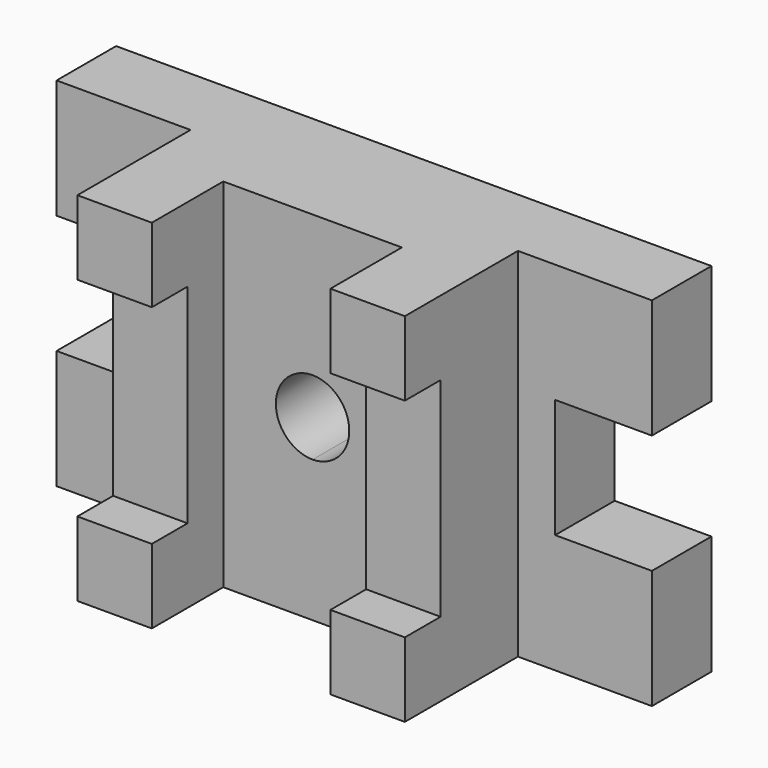
from build123d import *

# Parameters (mm, degrees)
F1_DEPTH = 31.75
F2_DEPTH = 53.975
F0_W     = 31.75
F0_H     = 88.9
F3_DEPTH = 73.025
F0_H_2   = 31.75
F4_DEPTH = 92.075


with BuildPart() as f1:
    # F0 (on Front) → F1 (new body)
    with BuildSketch(Plane.XZ):
        Polygon((-69.6421221438, 44.45), (-69.6421221438, 76.2), (-126.7921221438, 76.2), (-126.7921221438, 25.4), (-85.5171221438, 25.4), (-85.5171221438, -25.4), (-126.7921221438, -25.4), (-126.7921221438, -76.2), (-69.6421221438, -76.2), (-69.6421221438, -44.45), align=None)
    extrude(amount=F1_DEPTH)



with BuildPart() as f1b:
    # F0 (on Front) → F1, piece 2 (new body)
    with BuildSketch(Plane.XZ):
        Polygon((127.2078778562, 25.4), (127.2078778562, 76.2), (70.0578778562, 76.2), (70.0578778562, 44.45), (70.0578778562, -44.45), (70.0578778562, -76.2), (127.2078778562, -76.2), (127.2078778562, -25.4), (85.9328778562, -25.4), (85.9328778562, 25.4), align=None)
    extrude(amount=F1_DEPTH)


with BuildPart() as f2:
    # F0 (on Front) → F2 (new body)
    with BuildSketch(Plane.XZ):
        with BuildLine():
            Line((38.3078778562, 44.45), (38.3078778562, 76.2))
            Line((38.3078778562, 76.2), (0.2078778562, 76.2))
            Line((0.2078778562, 76.2), (0.2078778562, 15.8736388959))
            ThreePointArc((0.2078778562, 15.8736388959), (15.875, 0), (0.2078778562, -15.8736388959))
            Line((0.2078778562, -15.8736388959), (0.2078778562, -76.2))
            Line((0.2078778562, -76.2), (38.3078778562, -76.2))
            Line((38.3078778562, -76.2), (38.3078778562, -44.45))
            Line((38.3078778562, -44.45), (38.3078778562, 44.45))
        make_face()
        with BuildLine():
            Line((0.2078778562, 15.8736388959), (0.2078778562, 76.2))
            Line((0.2078778562, 76.2), (-37.8921221438, 76.2))
            Line((-37.8921221438, 76.2), (-37.8921221438, 44.45))
            Line((-37.8921221438, 44.45), (-37.8921221438, -44.45))
            Line((-37.8921221438, -44.45), (-37.8921221438, -76.2))
            Line((-37.8921221438, -76.2), (0.2078778562, -76.2))
            Line((0.2078778562, -76.2), (0.2078778562, -15.8736388959))
            ThreePointArc((0.2078778562, -15.8736388959), (-15.4592442877, 0), (0.2078778562, 15.8736388959))
        make_face()
    extrude(amount=F2_DEPTH)


with BuildPart() as f1_1:
    add(f1.part)

    add(f1b.part)  # F3 merges F1b

    add(f2.part)  # F3 merges F2
    # F0 (on Front) → F3 (join)
    with BuildSketch(Plane.XZ):
        with Locations((54.1828778562, 0)):
            Rectangle(F0_W, F0_H)
        with Locations((-53.7671221438, 0)):
            Rectangle(F0_W, F0_H)
    extrude(amount=F3_DEPTH)

    # F0 (on Front) → F4 (join)
    with BuildSketch(Plane.XZ):
        with Locations((-53.7671221438, 60.325)):
            Rectangle(F0_W, F0_H_2)
        with Locations((54.1828778562, 60.325)):
            Rectangle(F0_W, F0_H_2)
        with Locations((54.1828778562, -60.325)):
            Rectangle(F0_W, F0_H_2)
        with Locations((-53.7671221438, -60.325)):
            Rectangle(F0_W, F0_H_2)
    extrude(amount=F4_DEPTH)


solid = f1_1.part
